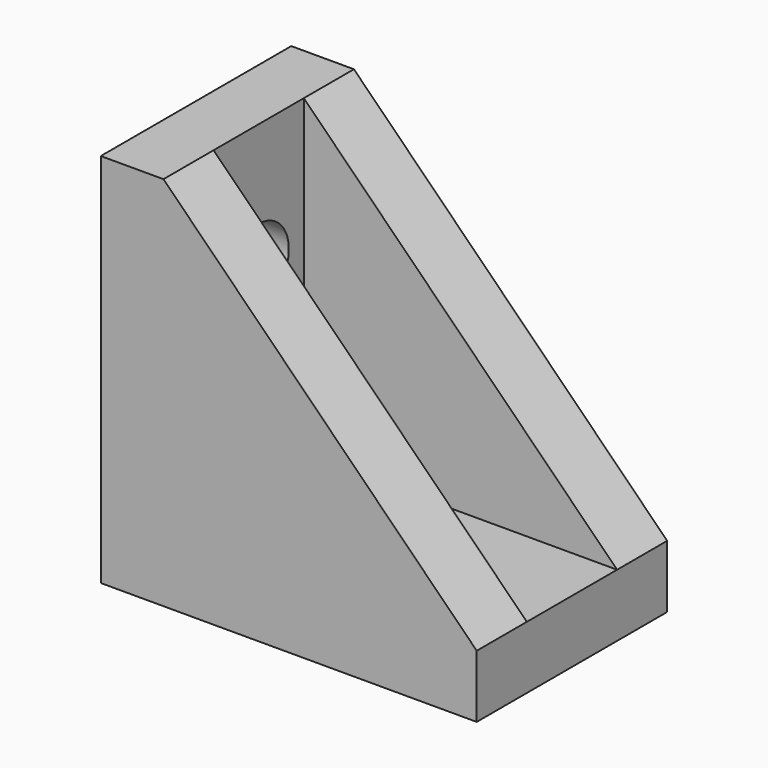
from build123d import *

# Parameters (mm, degrees)
F1_DEPTH = 19
F3_W     = 25
F3_H     = 9
F4_DEPTH = 25
F5_R     = 3
F6_DEPTH = 5


with BuildPart() as f1:
    # F0 (on Front) → F1 (new body)
    with BuildSketch(Plane.XZ):
        Polygon((0, 30), (0, 0), (30, 0), (30, 5), (5, 30), align=None)
    extrude(amount=-F1_DEPTH)

    # F3 (on offset) → F4 (cut)
    with BuildSketch(Plane.XY.offset(30)):
        with Locations((17.5, 9.5)):
            Rectangle(F3_W, F3_H)
    extrude(amount=-F4_DEPTH, mode=Mode.SUBTRACT)

    # F5 (on face) → F6 (cut, through all)
    with BuildSketch(Plane(origin=(0, 0, 0), x_dir=(0, -1, 0), z_dir=(-1, 0, 0))):
        with Locations((-9.5, 20)):
            Circle(F5_R)
    extrude(amount=-F6_DEPTH, mode=Mode.SUBTRACT)


solid = f1.part
